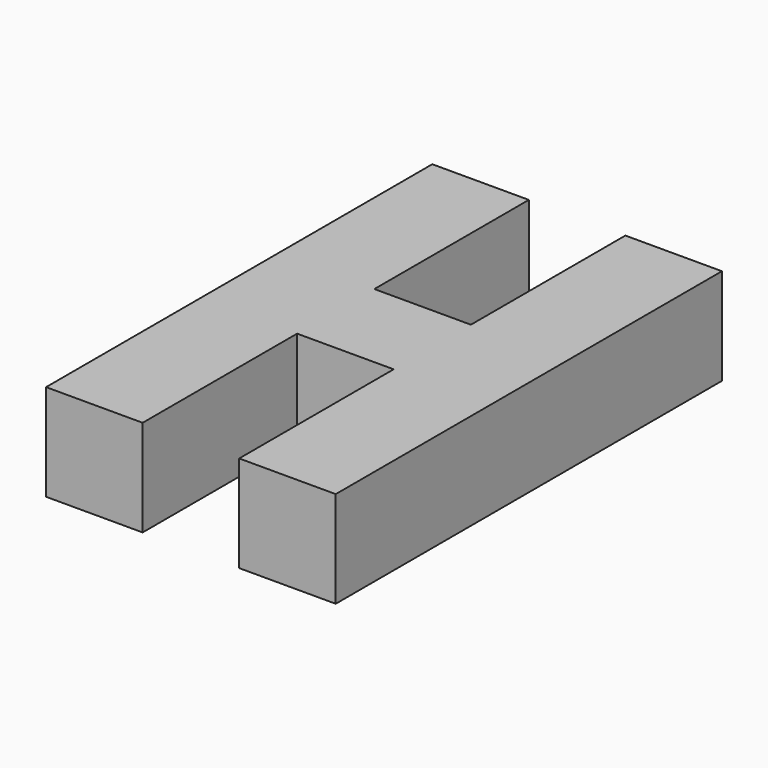
from build123d import *

# Parameters (mm, degrees)
PAD_DEPTH = 10


with BuildPart() as part:
    # Sketch → Pad (new body)
    with BuildSketch(Plane.XY):
        Polygon((17.579258, 23.08618), (17.579258, -26.91382), (27.579258, -26.91382), (27.579258, -6.91382), (37.579258, -6.91382), (37.579258, -26.91382), (47.579258, -26.91382), (47.579258, 23.08618), (37.579258, 23.08618), (37.579258, 3.08618), (27.579258, 3.08618), (27.579258, 23.08618), align=None)
    extrude(amount=PAD_DEPTH)


solid = part.part
